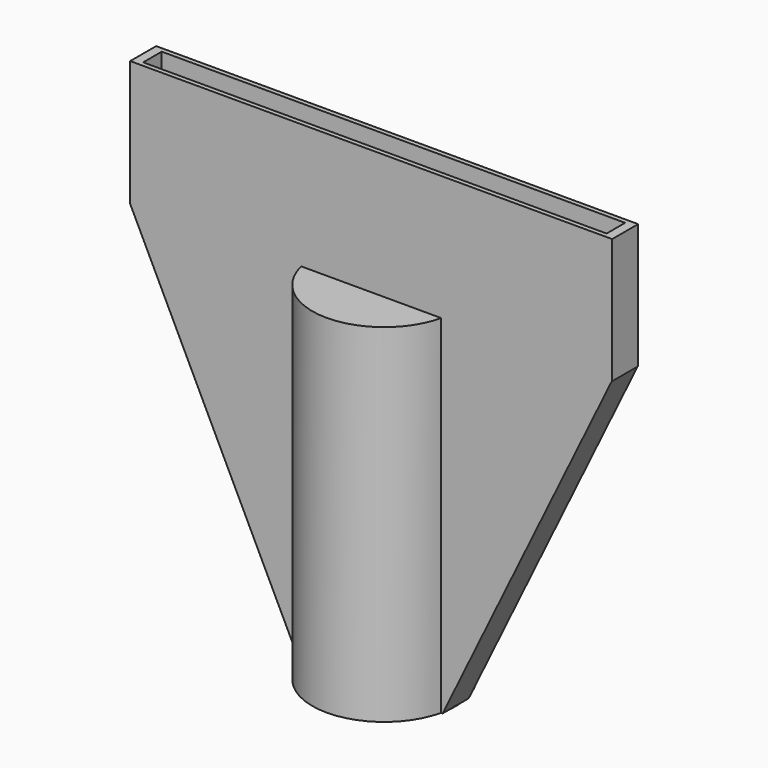
from build123d import *

# Parameters (mm, degrees)
BOX_W             = 100
BOX_H             = 5
BOX_DEPTH         = 27
PAD_DEPTH         = 2.5
CYLINDER_R        = 12.5
CYLINDER_DEPTH    = 72
BOX001_W          = 104
BOX001_H          = 7
BOX001_DEPTH      = 27
PAD001_DEPTH      = 3.5
CYLINDER001_R     = 15.5
CYLINDER001_DEPTH = 75


with BuildPart() as tip_hole:
    # Box → Box (new body)
    with BuildSketch(Plane(origin=(-50, -2.5, 62.5), x_dir=(1, 0, 0), z_dir=(0, 0, 1))):
        with Locations((50, 2.5)):
            Rectangle(BOX_W, BOX_H)
    extrude(amount=BOX_DEPTH)


with BuildPart() as internal_duct:
    # Sketch → Pad (new body, symmetric)
    with BuildSketch(Plane(origin=(-68, 0, -12.5), x_dir=(1, 0, 0), z_dir=(0, -1, 0))):
        Polygon((55.48275, 0), (17.98275, 75), (117.98275, 75), (80.48275, 0), align=None)
    extrude(amount=PAD_DEPTH, both=True)


with BuildPart() as holes:
    # Cylinder → Cylinder (new body)
    with BuildSketch(Plane.XY.offset(-15.5)):
        Circle(CYLINDER_R)
    extrude(amount=CYLINDER_DEPTH)

    # Fusion: union tip hole, internal duct
    add(tip_hole.part)
    add(internal_duct.part)


with BuildPart() as tip_body:
    # Box001 → Box001 (new body)
    with BuildSketch(Plane(origin=(-52, -3.5, 62.5), x_dir=(1, 0, 0), z_dir=(0, 0, 1))):
        with Locations((52, 3.5)):
            Rectangle(BOX001_W, BOX001_H)
    extrude(amount=BOX001_DEPTH)


with BuildPart() as internal_duct_wall:
    # Sketch001 → Pad001 (new body, symmetric)
    with BuildSketch(Plane(origin=(-65.5, 0, -12.5), x_dir=(1, 0, 0), z_dir=(0, -1, 0))):
        Polygon((49.929678, 0), (13.429678, 75), (117.429678, 75), (80.929678, 0), align=None)
    extrude(amount=PAD001_DEPTH, both=True)


with BuildPart() as body_with_holes:
    # Cylinder001 → Cylinder001 (new body)
    with BuildSketch(Plane.XY.offset(-12.5)):
        Circle(CYLINDER001_R)
    extrude(amount=CYLINDER001_DEPTH)

    # Fusion001: union tip body, internal duct wall
    add(tip_body.part)
    add(internal_duct_wall.part)

    # Cut: cut Holes
    add(holes.part, mode=Mode.SUBTRACT)


solid = body_with_holes.part
